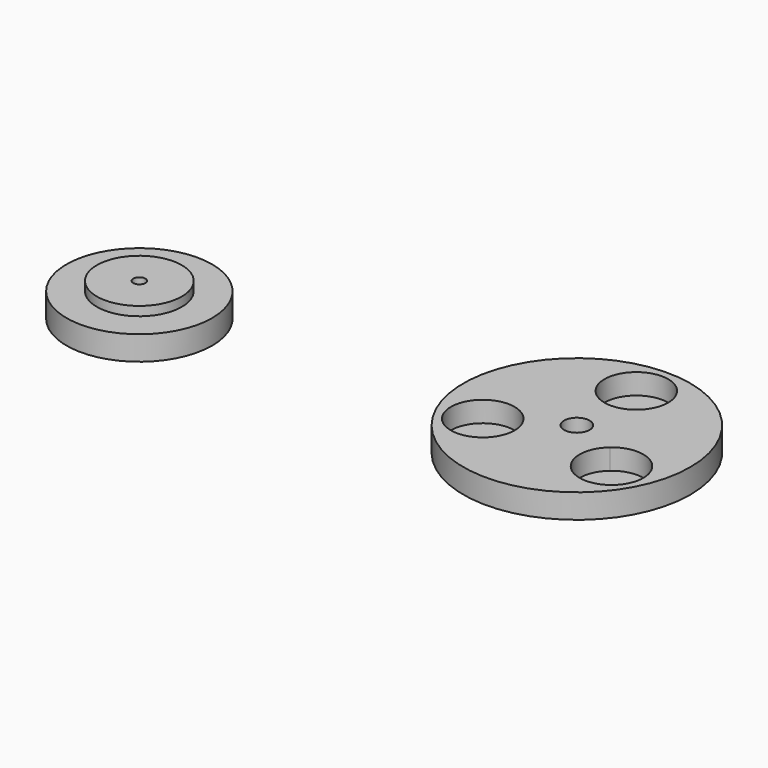
from build123d import *

# Parameters (mm, degrees)
F0_R     = 12
F0_R_2   = 7
F0_R_3   = 5
F1_DEPTH = 4
F0_R_4   = 4
F0_R_5   = 1
F2_DEPTH = 1.5
F0_R_6   = 18.7
F0_R_7   = 3.75
F0_R_8   = 2.1
F3_DEPTH = 0.6
F4_DEPTH = 4


with BuildPart() as f1:
    # F0 (on Top) → F1 (new body)
    with BuildSketch(Plane.XY):
        with Locations((-42.7924543619, 0)):
            Circle(F0_R)
        with Locations((-42.7924543619, 0)):
            Circle(F0_R_2, mode=Mode.SUBTRACT)
        with Locations((-42.7924543619, 0)):
            Circle(F0_R_2)
        with Locations((-42.7924543619, 0)):
            Circle(F0_R_3, mode=Mode.SUBTRACT)
    extrude(amount=-F1_DEPTH)

    # F0 (on Top) → F2 (join)
    with BuildSketch(Plane.XY):
        with Locations((-42.7924543619, 0)):
            Circle(F0_R_2)
        with Locations((-42.7924543619, 0)):
            Circle(F0_R_3, mode=Mode.SUBTRACT)
        with Locations((-42.7924543619, 0)):
            Circle(F0_R_3)
        with Locations((-42.7924543619, 0)):
            Circle(F0_R_4, mode=Mode.SUBTRACT)
        with Locations((-42.7924543619, 0)):
            Circle(F0_R_4)
        with Locations((-42.7924543619, 0)):
            Circle(F0_R_5, mode=Mode.SUBTRACT)
    extrude(amount=F2_DEPTH)


with BuildPart() as f3:
    # F0 (on Top) → F3 (new body)
    with BuildSketch(Plane.XY):
        with Locations((29.3115582317, 0)):
            Circle(F0_R_6)
        with BuildLine():
            ThreePointArc((27.5738657454, 7.2959183673), (26.2751446855, 16.5328370009), (34.5615582317, 12.25))
            ThreePointArc((34.5615582317, 12.25), (33.5943952326, 9.2135864538), (31.049250718, 7.2959183673))
            ThreePointArc((31.049250718, 7.2959183673), (35.1972482358, 4.6485108558), (36.8115582317, 0))
            ThreePointArc((36.8115582317, 0), (36.7329707219, -1.0828834889), (36.4988551249, -2.1430733466))
            ThreePointArc((36.4988551249, -2.1430733466), (42.1112082981, -1.3539702321), (45.1703694281, -6.125))
            ThreePointArc((45.1703694281, -6.125), (39.4321766612, -11.3522524162), (34.7611626386, -5.1528450208))
            ThreePointArc((34.7611626386, -5.1528450208), (29.3115582317, -7.5), (23.8619538248, -5.1528450208))
            ThreePointArc((23.8619538248, -5.1528450208), (23.9299994515, -5.6368072331), (23.9527470354, -6.125))
            ThreePointArc((23.9527470354, -6.125), (13.9317172675, -8.31583887), (22.1242613385, -2.1430733466))
            ThreePointArc((22.1242613385, -2.1430733466), (22.8163677033, 3.75), (27.5738657454, 7.2959183673))
        make_face(mode=Mode.SUBTRACT)
        with BuildLine():
            ThreePointArc((31.049250718, 7.2959183673), (29.3115582317, 7), (27.5738657454, 7.2959183673))
            ThreePointArc((27.5738657454, 7.2959183673), (22.8163677033, 3.75), (22.1242613385, -2.1430733466))
            ThreePointArc((22.1242613385, -2.1430733466), (23.2493804052, -3.5), (23.8619538248, -5.1528450208))
            ThreePointArc((23.8619538248, -5.1528450208), (29.3115582317, -7.5), (34.7611626386, -5.1528450208))
            ThreePointArc((34.7611626386, -5.1528450208), (35.3737360582, -3.5), (36.4988551249, -2.1430733466))
            ThreePointArc((36.4988551249, -2.1430733466), (36.7329707219, -1.0828834889), (36.8115582317, 0))
            ThreePointArc((36.8115582317, 0), (35.1972482358, 4.6485108558), (31.049250718, 7.2959183673))
        make_face()
        with Locations((29.3115582317, 0)):
            Circle(F0_R_7, mode=Mode.SUBTRACT)
        with BuildLine():
            ThreePointArc((23.8619538248, -5.1528450208), (22.8163677033, -3.75), (22.1242613385, -2.1430733466))
            ThreePointArc((22.1242613385, -2.1430733466), (13.9317172675, -8.31583887), (23.9527470354, -6.125))
            ThreePointArc((23.9527470354, -6.125), (23.9299994515, -5.6368072331), (23.8619538248, -5.1528450208))
        make_face()
        with BuildLine():
            ThreePointArc((31.049250718, 7.2959183673), (33.5943952326, 9.2135864538), (34.5615582317, 12.25))
            ThreePointArc((34.5615582317, 12.25), (26.2751446855, 16.5328370009), (27.5738657454, 7.2959183673))
            ThreePointArc((27.5738657454, 7.2959183673), (29.3115582317, 7.5), (31.049250718, 7.2959183673))
        make_face()
        with BuildLine():
            ThreePointArc((45.1703694281, -6.125), (42.1112082981, -1.3539702321), (36.4988551249, -2.1430733466))
            ThreePointArc((36.4988551249, -2.1430733466), (35.8067487601, -3.75), (34.7611626386, -5.1528450208))
            ThreePointArc((34.7611626386, -5.1528450208), (39.4321766612, -11.3522524162), (45.1703694281, -6.125))
        make_face()
        with Locations((29.3115582317, 0)):
            Circle(F0_R_7)
        with Locations((29.3115582317, 0)):
            Circle(F0_R_8, mode=Mode.SUBTRACT)
        with BuildLine():
            ThreePointArc((23.8619538248, -5.1528450208), (23.2493804052, -3.5), (22.1242613385, -2.1430733466))
            ThreePointArc((22.1242613385, -2.1430733466), (22.8163677033, -3.75), (23.8619538248, -5.1528450208))
        make_face()
        with BuildLine():
            ThreePointArc((31.049250718, 7.2959183673), (29.3115582317, 7.5), (27.5738657454, 7.2959183673))
            ThreePointArc((27.5738657454, 7.2959183673), (29.3115582317, 7), (31.049250718, 7.2959183673))
        make_face()
        with BuildLine():
            ThreePointArc((34.7611626386, -5.1528450208), (35.8067487601, -3.75), (36.4988551249, -2.1430733466))
            ThreePointArc((36.4988551249, -2.1430733466), (35.3737360582, -3.5), (34.7611626386, -5.1528450208))
        make_face()
    extrude(amount=F3_DEPTH)

    # F0 (on Top) → F4 (join)
    with BuildSketch(Plane.XY):
        with Locations((29.3115582317, 0)):
            Circle(F0_R_6)
        with BuildLine():
            ThreePointArc((27.5738657454, 7.2959183673), (26.2751446855, 16.5328370009), (34.5615582317, 12.25))
            ThreePointArc((34.5615582317, 12.25), (33.5943952326, 9.2135864538), (31.049250718, 7.2959183673))
            ThreePointArc((31.049250718, 7.2959183673), (35.1972482358, 4.6485108558), (36.8115582317, 0))
            ThreePointArc((36.8115582317, 0), (36.7329707219, -1.0828834889), (36.4988551249, -2.1430733466))
            ThreePointArc((36.4988551249, -2.1430733466), (42.1112082981, -1.3539702321), (45.1703694281, -6.125))
            ThreePointArc((45.1703694281, -6.125), (39.4321766612, -11.3522524162), (34.7611626386, -5.1528450208))
            ThreePointArc((34.7611626386, -5.1528450208), (29.3115582317, -7.5), (23.8619538248, -5.1528450208))
            ThreePointArc((23.8619538248, -5.1528450208), (23.9299994515, -5.6368072331), (23.9527470354, -6.125))
            ThreePointArc((23.9527470354, -6.125), (13.9317172675, -8.31583887), (22.1242613385, -2.1430733466))
            ThreePointArc((22.1242613385, -2.1430733466), (22.8163677033, 3.75), (27.5738657454, 7.2959183673))
        make_face(mode=Mode.SUBTRACT)
        with BuildLine():
            ThreePointArc((31.049250718, 7.2959183673), (29.3115582317, 7), (27.5738657454, 7.2959183673))
            ThreePointArc((27.5738657454, 7.2959183673), (22.8163677033, 3.75), (22.1242613385, -2.1430733466))
            ThreePointArc((22.1242613385, -2.1430733466), (23.2493804052, -3.5), (23.8619538248, -5.1528450208))
            ThreePointArc((23.8619538248, -5.1528450208), (29.3115582317, -7.5), (34.7611626386, -5.1528450208))
            ThreePointArc((34.7611626386, -5.1528450208), (35.3737360582, -3.5), (36.4988551249, -2.1430733466))
            ThreePointArc((36.4988551249, -2.1430733466), (36.7329707219, -1.0828834889), (36.8115582317, 0))
            ThreePointArc((36.8115582317, 0), (35.1972482358, 4.6485108558), (31.049250718, 7.2959183673))
        make_face()
        with Locations((29.3115582317, 0)):
            Circle(F0_R_7, mode=Mode.SUBTRACT)
        with Locations((29.3115582317, 0)):
            Circle(F0_R_7)
        with Locations((29.3115582317, 0)):
            Circle(F0_R_8, mode=Mode.SUBTRACT)
    extrude(amount=F4_DEPTH)


solid = Compound([f1.part, f3.part])
